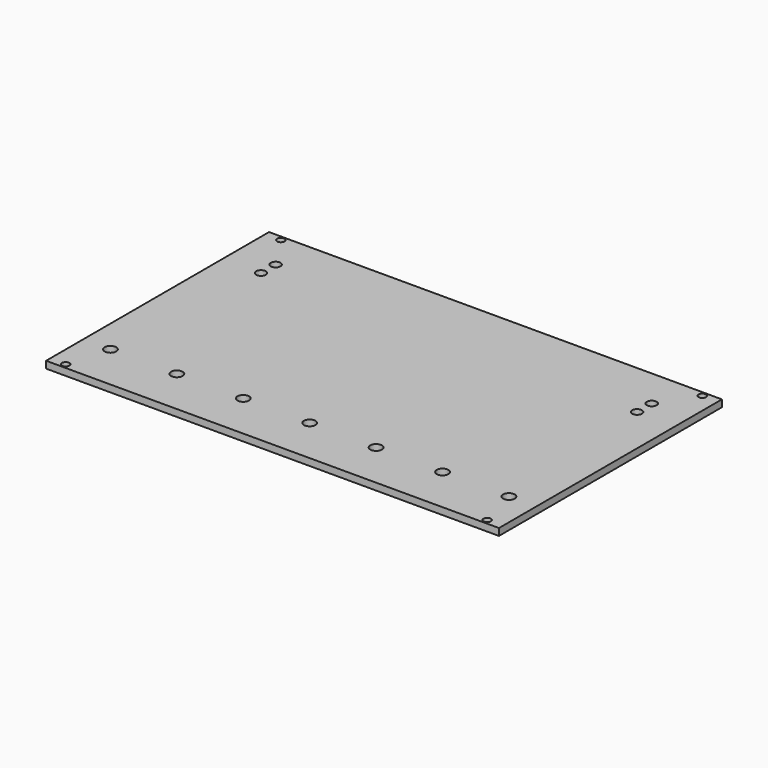
from build123d import *

# Parameters (mm, degrees)
SKETCH_W        = 195
SKETCH_H        = 120
PAD_DEPTH       = 3
SKETCH001_R     = 1.6
POCKET_DEPTH    = 5
SKETCH002_R     = 2.5
SKETCH002_R_2   = 2.1
POCKET001_DEPTH = 5


with BuildPart() as part:
    # Sketch → Pad (new body)
    with BuildSketch(Plane.XY):
        Rectangle(SKETCH_W, SKETCH_H)
    extrude(amount=PAD_DEPTH)

    # Sketch001 → Pocket (cut)
    with BuildSketch(Plane.XY.offset(3)):
        with Locations((-90.75, 57.9)):
            Circle(SKETCH001_R)
        with Locations((90.75, 57.9)):
            Circle(SKETCH001_R)
        with Locations((-90.75, -57.9)):
            Circle(SKETCH001_R)
        with Locations((90.75, -57.9)):
            Circle(SKETCH001_R)
    extrude(amount=-POCKET_DEPTH, mode=Mode.SUBTRACT)

    # Sketch002 → Pocket001 (cut)
    with BuildSketch(Plane.XY.offset(3)):
        with Locations((-57.2, -40)):
            Circle(SKETCH002_R)
        with Locations((-28.6, -40)):
            Circle(SKETCH002_R)
        with Locations((0, -40)):
            Circle(SKETCH002_R)
        with Locations((28.6, -40)):
            Circle(SKETCH002_R)
        with Locations((57.2, -40)):
            Circle(SKETCH002_R)
        with Locations((-80.965, 42.9)):
            Circle(SKETCH002_R_2)
        with Locations((-80.965, 35)):
            Circle(SKETCH002_R_2)
        with Locations((80.965, 42.9)):
            Circle(SKETCH002_R_2)
        with Locations((80.965, 35)):
            Circle(SKETCH002_R_2)
        with Locations((-85.8, -40)):
            Circle(SKETCH002_R)
        with Locations((85.8, -40)):
            Circle(SKETCH002_R)
    extrude(amount=-POCKET001_DEPTH, mode=Mode.SUBTRACT)


solid = part.part
